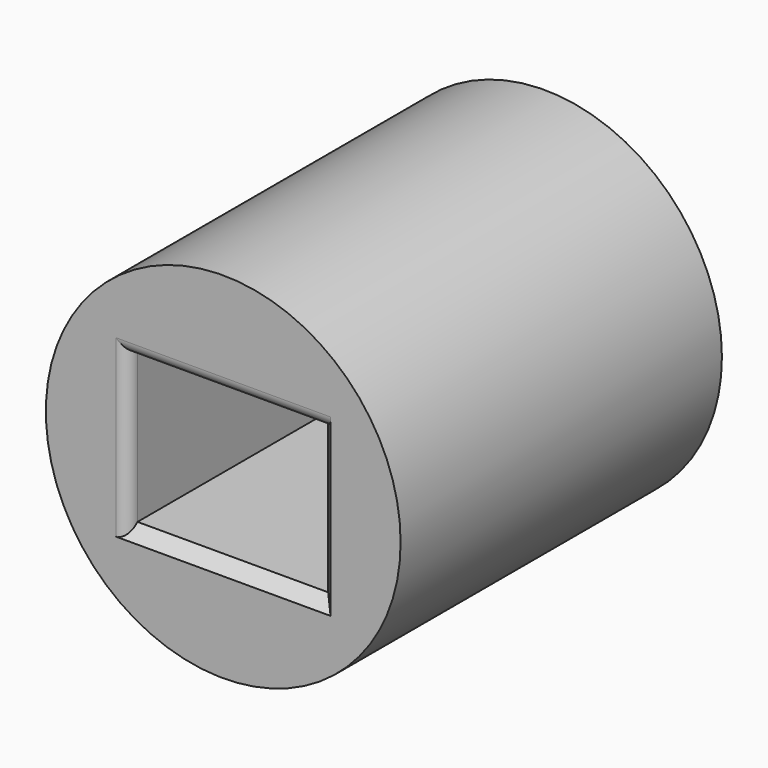
from build123d import *

# Parameters (mm, degrees)
F0_R     = 75.040734
F0_W     = 80.655844
F0_H     = 63.927502
F1_DEPTH = 169.911919
F2_R     = 5.08
F3_SIZE  = 5.08


with BuildPart() as f1:
    # F0 (on Front) → F1 (new body)
    with BuildSketch(Plane.XZ):
        Circle(F0_R)
        Rectangle(F0_W, F0_H, mode=Mode.SUBTRACT)
    extrude(amount=F1_DEPTH)

    # F2
    f2_edges = [f1.edges().sort_by_distance(p)[0] for p in [
        (0, -169.911919, 31.963751),
        (-40.327922, -169.911919, 0),
    ]]
    fillet(f2_edges, radius=F2_R)

    # F3
    f3_edges = [f1.edges().sort_by_distance(p)[0] for p in [
        (40.327922, -169.911919, 0),
        (0, -169.911919, -31.963751),
    ]]
    chamfer(f3_edges, length=F3_SIZE)


solid = f1.part
